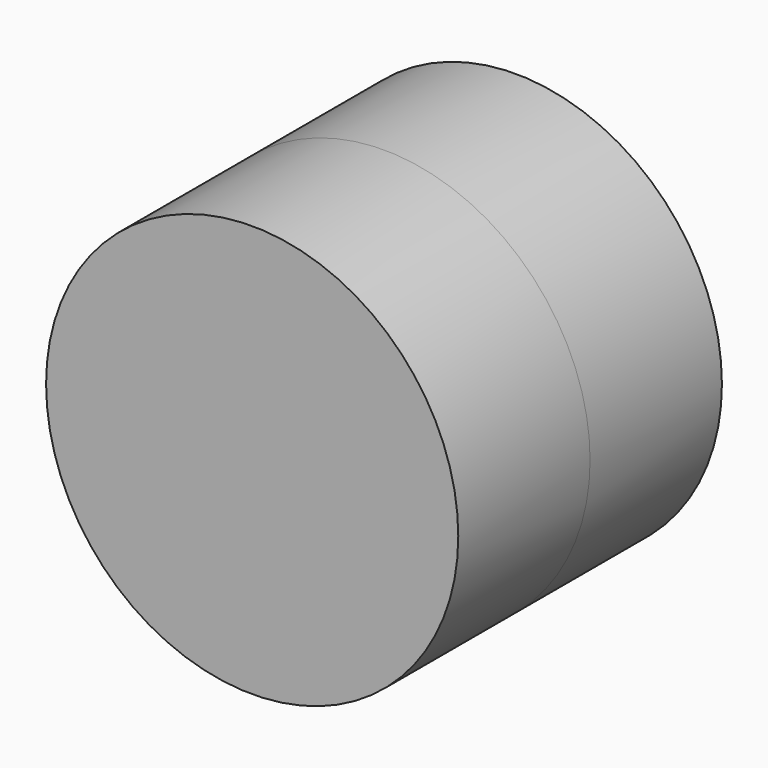
from build123d import *

# Parameters (mm, degrees)
F0_R     = 31.267896
F1_DEPTH = 25


with BuildPart() as f1:
    # F0 (on Front) → F1 (new body)
    with BuildSketch(Plane.XZ):
        with Locations((0.565441, -0.09424)):
            Circle(F0_R)
    extrude(amount=F1_DEPTH)


with BuildPart() as f2_1:
    # F2: instance of F1
    add(f1.part.mirror(Plane.XZ))


solid = Compound([f1.part, f2_1.part])
